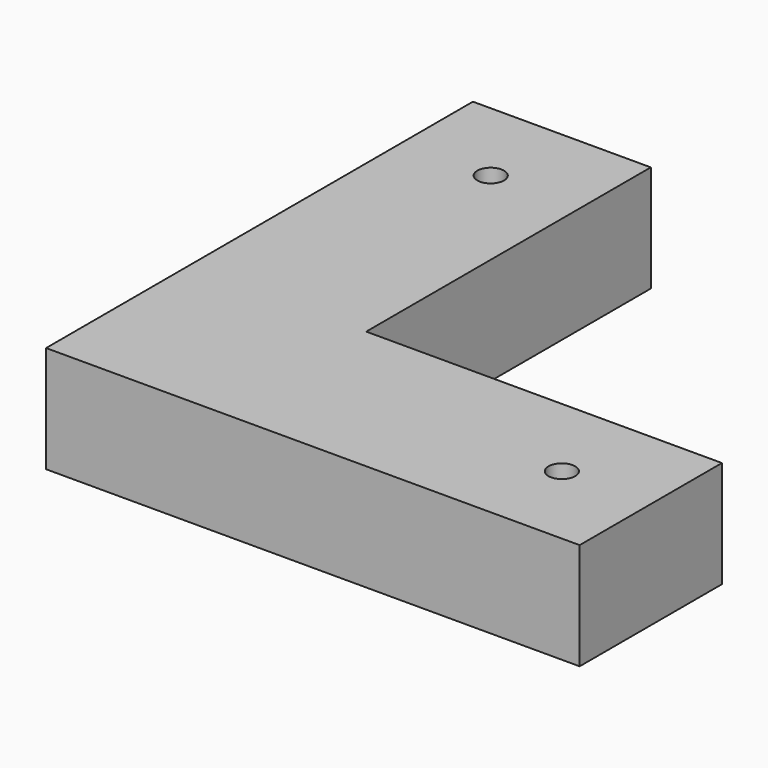
from build123d import *

# Parameters (mm, degrees)
F0_R     = 0.75
F1_DEPTH = 6


with BuildPart() as f1:
    # F0 (on Top) → F1 (new body)
    with BuildSketch(Plane.XY):
        Polygon((7.885546, 15.630563), (-2.114454, 15.630563), (-2.114454, -14.369437), (7.885546, -14.369437), (27.885546, -14.369437), (27.885546, -4.369437), (7.885546, -4.369437), align=None)
        with Locations((22.885546, -9.369437)):
            Circle(F0_R, mode=Mode.SUBTRACT)
        with Locations((2.885546, 10.630563)):
            Circle(F0_R, mode=Mode.SUBTRACT)
    extrude(amount=F1_DEPTH)


solid = f1.part
